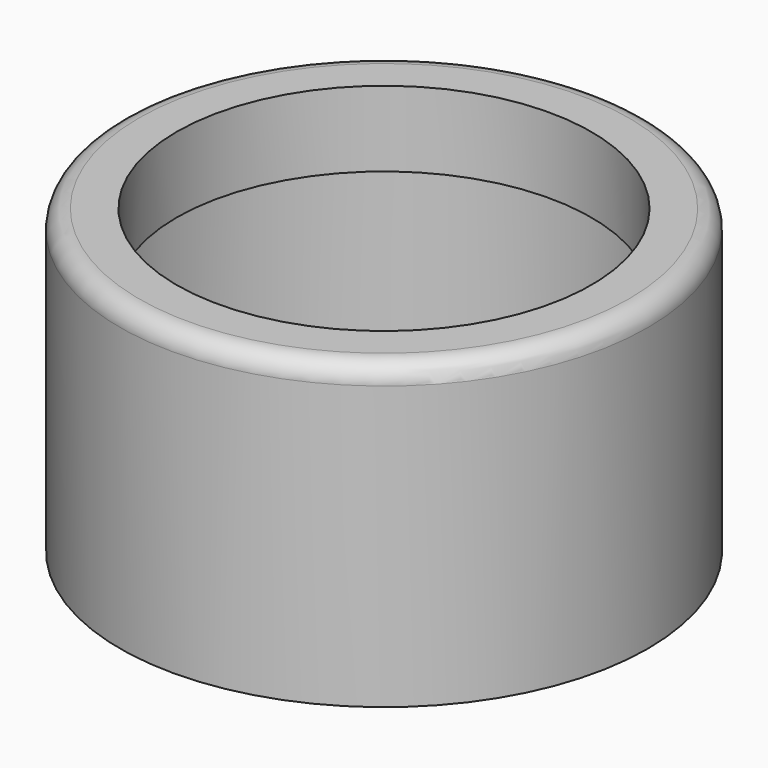
from build123d import *

# Parameters (mm, degrees)
F0_R     = 22.225
F0_R_2   = 20.6375
F1_DEPTH = 25.4
F2_DEPTH = 19.05
F4_D     = 34.925
F5_R     = 1.6002


with BuildPart() as f1:
    # F0 (on Top) → F1 (new body)
    with BuildSketch(Plane.XY):
        Circle(F0_R)
        Circle(F0_R_2, mode=Mode.SUBTRACT)
        Circle(F0_R_2)
    extrude(amount=F1_DEPTH)

    # F0 (on Top) → F2 (cut)
    with BuildSketch(Plane.XY):
        Circle(F0_R_2)
    extrude(amount=F2_DEPTH, mode=Mode.SUBTRACT)

    # F4 (through all)
    with Locations(Plane.XY.offset(25.4)):
        with Locations((0, 0)):
            Hole(F4_D / 2)

    # F5
    f5_edges = [f1.edges().sort_by_distance(p)[0] for p in [
        (-22.225, 0, 25.4),
    ]]
    fillet(f5_edges, radius=F5_R)


solid = f1.part
